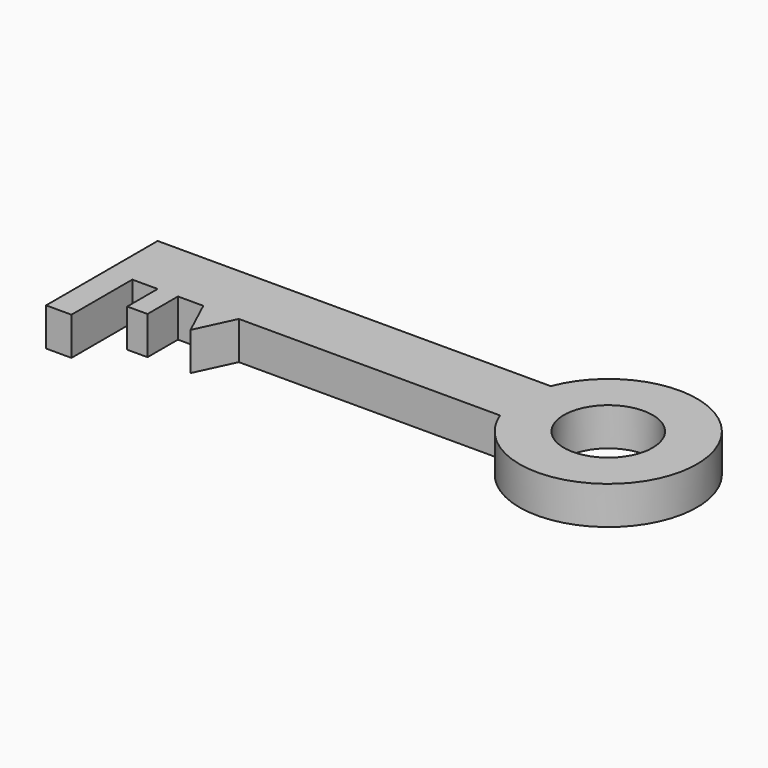
from build123d import *

# Parameters (mm, degrees)
F0_R     = 17.5
F0_W     = 10
F0_H     = 30
F0_W_2   = 8
F0_H_2   = 15
F1_DEPTH = 15


with BuildPart() as f1:
    # F0 (on Top) → F1 (new body)
    with BuildSketch(Plane.XY):
        with BuildLine():
            Line((30.746029, 16.621397), (-124.253971, 16.621397))
            Line((-124.253971, 16.621397), (-124.253971, -8.378603))
            Line((-124.253971, -8.378603), (-114.253971, -8.378603))
            Line((-114.253971, -8.378603), (-104.253971, -8.378603))
            Line((-104.253971, -8.378603), (-96.253971, -8.378603))
            Line((-96.253971, -8.378603), (-86.253971, -8.378603))
            Line((-86.253971, -8.378603), (-72.253971, -8.378603))
            Line((-72.253971, -8.378603), (30.746029, -8.378603))
            ThreePointArc((30.746029, -8.378603), (98.437771, 4.121397), (30.746029, 16.621397))
        make_face()
        with Locations((63.437771, 4.121397)):
            Circle(F0_R, mode=Mode.SUBTRACT)
        with Locations((-119.253971, -23.378603)):
            Rectangle(F0_W, F0_H)
        with Locations((-100.253971, -15.878603)):
            Rectangle(F0_W_2, F0_H_2)
        Polygon((-79.28396, -23.378603), (-72.253971, -8.378603), (-86.253971, -8.378603), align=None)
    extrude(amount=F1_DEPTH)


solid = f1.part
